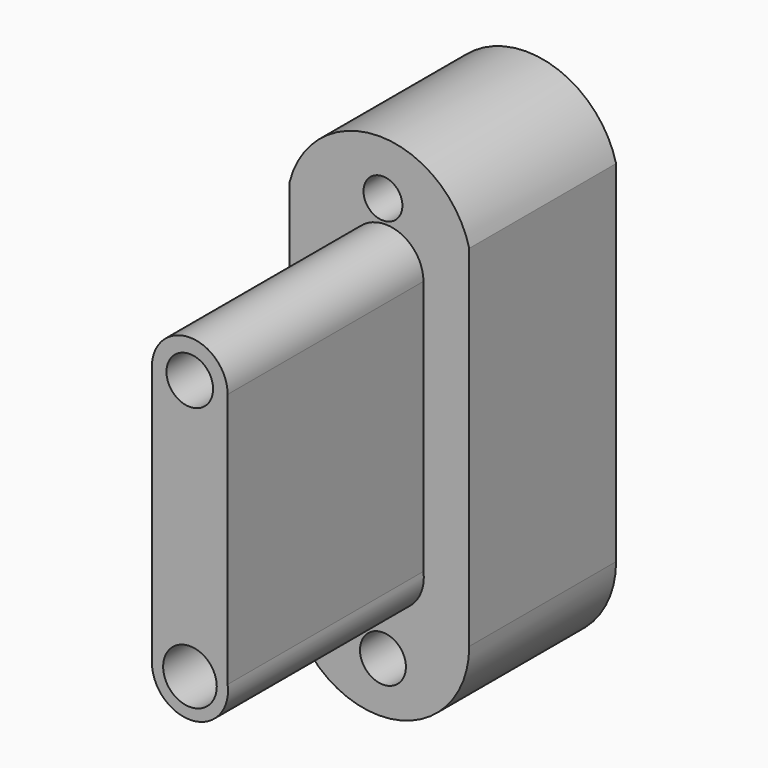
from build123d import *

# Parameters (mm, degrees)
F1_R     = 4.381687
F1_R_2   = 3.810032
F2_DEPTH = 70
F0_R     = 3.752527
F0_R_2   = 3.178918
F3_DEPTH = 30


with BuildPart() as f2:
    # F1 (on Front) → F2 (new body)
    with BuildSketch(Plane.XZ):
        with BuildLine():
            ThreePointArc((3.885379, 25.47081), (-2.302446, 31.658634), (-8.49027, 25.47081))
            Line((-8.49027, 25.47081), (-8.49027, -17.124442))
            ThreePointArc((-8.49027, -17.124442), (-1.839569, -23.327308), (3.885379, -16.261026))
            Line((3.885379, -16.261026), (3.885379, 25.47081))
        make_face()
        with Locations((-2.272326, -17.124442)):
            Circle(F1_R, mode=Mode.SUBTRACT)
        with Locations((-2.302446, 25.47081)):
            Circle(F1_R_2, mode=Mode.SUBTRACT)
    extrude(amount=F2_DEPTH)

    # F0 (on Front) → F3 (join)
    with BuildSketch(Plane.XZ):
        with BuildLine():
            ThreePointArc((11.368327, 32.665953), (-3.309767, 44.024813), (-17.98786, 32.665953))
            Line((-17.98786, 32.665953), (-17.98786, -26.334228))
            ThreePointArc((-17.98786, -26.334228), (-2.495646, -39.310858), (11.368327, -24.607392))
            Line((11.368327, -24.607392), (11.368327, 32.665953))
        make_face()
        with Locations((-2.734155, -30.939119)):
            Circle(F0_R, mode=Mode.SUBTRACT)
        with Locations((-2.734155, 35.256207)):
            Circle(F0_R_2, mode=Mode.SUBTRACT)
    extrude(amount=F3_DEPTH)


solid = f2.part
